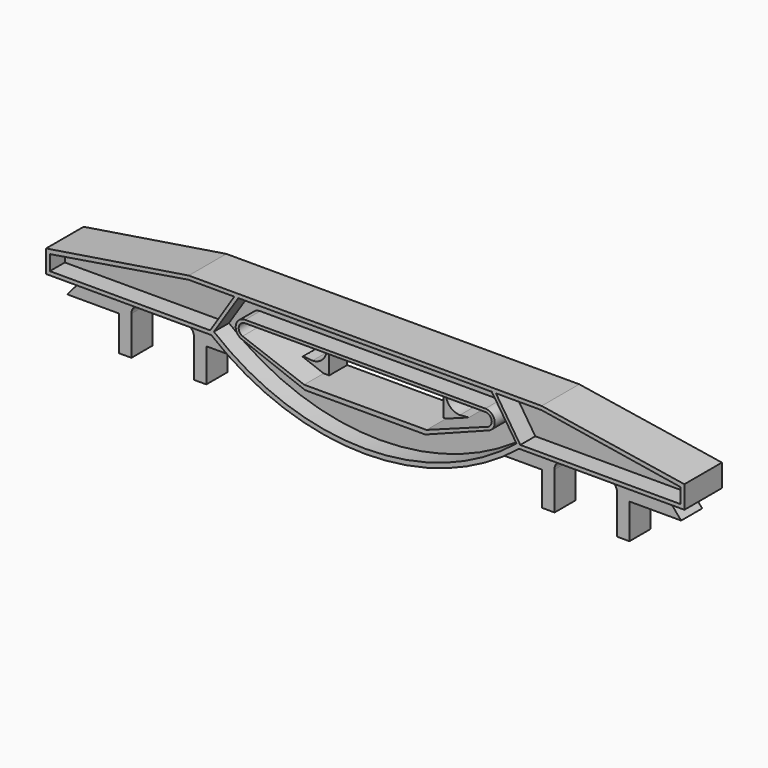
from build123d import *

# Parameters (mm, degrees)
EXTRUDE068_DEPTH           = 3
EXTRUDE068_PLACEMENT_ANGLE = 180
EXTRUDE067_DEPTH           = 3
EXTRUDE027_DEPTH           = 3.5
EXTRUDE034_DEPTH           = 3.5
EXTRUDE034_PLACEMENT_ANGLE = 180
EXTRUDE020_DEPTH           = 2.5
EXTRUDE019_DEPTH           = 6.25
CUT036_PLACEMENT_ANGLE     = 90


with BuildPart() as extrude068:
    # Sketch040 → Extrude068 (new body)
    with BuildSketch(Plane.XZ):
        with BuildLine():
            Line((32.579475, 2.855954), (34.598949, 2.855954))
            Line((34.598949, 2.855954), (34.598949, -1.799177))
            Line((34.598949, -1.799177), (33.872559, -1.799177))
            Line((33.872559, -1.799177), (31.075473, -0.756428))
            ThreePointArc((31.172102, -0.672237), (31.109316, -0.697722), (31.075473, -0.756428))
            Line((32.386694, -0.781542), (31.172102, -0.672237))
            ThreePointArc((32.386694, -0.781542), (33.712242, -0.224592), (34.260406, 1.104614))
            ThreePointArc((34.260406, 1.104614), (33.763902, 2.113863), (32.714019, 2.517408))
            ThreePointArc((32.579475, 2.855954), (32.532862, 2.641421), (32.714019, 2.517408))
        make_face()
    extrude(amount=EXTRUDE068_DEPTH)


with BuildPart() as extrude068_1:
    # Extrude068 placement: moved
    add(extrude068.part.moved(Location((84.4, -62.8, 0))).rotate(Axis((84.4, -62.8, 0), (0, 0, 1)), EXTRUDE068_PLACEMENT_ANGLE))


with BuildPart() as extrude067:
    # Sketch040 → Extrude067 (new body)
    with BuildSketch(Plane.XZ):
        with BuildLine():
            Line((32.579475, 2.855954), (34.598949, 2.855954))
            Line((34.598949, 2.855954), (34.598949, -1.799177))
            Line((34.598949, -1.799177), (33.872559, -1.799177))
            Line((33.872559, -1.799177), (31.075473, -0.756428))
            ThreePointArc((31.172102, -0.672237), (31.109316, -0.697722), (31.075473, -0.756428))
            Line((32.386694, -0.781542), (31.172102, -0.672237))
            ThreePointArc((32.386694, -0.781542), (33.712242, -0.224592), (34.260406, 1.104614))
            ThreePointArc((34.260406, 1.104614), (33.763902, 2.113863), (32.714019, 2.517408))
            ThreePointArc((32.579475, 2.855954), (32.532862, 2.641421), (32.714019, 2.517408))
        make_face()
    extrude(amount=EXTRUDE067_DEPTH)


with BuildPart() as extrude067_1:
    # Extrude067 placement: moved
    add(extrude067.part.moved(Location((0, -59.8, 0))))


with BuildPart() as extrude027:
    # Sketch019 → Extrude027 (new body)
    with BuildSketch(Plane.XZ):
        with BuildLine():
            Line((82.710403, -2.436997), (80.667656, -0.042506))
            Line((80.667656, -0.042506), (62.164684, -0.042506))
            Line((62.164684, -0.042506), (58.594872, -2.493932))
            Line((58.594872, -2.493932), (64.198559, -2.493932))
            Line((64.198559, -2.493932), (64.198559, -6.97036))
            Line((64.198559, -6.97036), (65.852661, -6.97036))
            Line((65.852661, -6.97036), (65.852661, -1.924586))
            ThreePointArc((66.964828, -0.767347), (66.162314, -1.109134), (65.852661, -1.924586))
            Line((66.964828, -0.767347), (73.098848, -0.767347))
            ThreePointArc((74.177399, -1.907358), (73.865032, -1.122677), (73.098848, -0.767347))
            Line((74.177399, -1.907358), (74.177399, -7.098253))
            Line((74.177399, -7.098253), (75.826362, -7.098253))
            Line((75.826362, -7.098253), (75.826362, -2.436997))
            Line((75.826362, -2.436997), (82.710403, -2.436997))
        make_face()
    extrude(amount=EXTRUDE027_DEPTH)


with BuildPart() as extrude027_1:
    # Extrude027 placement: moved
    add(extrude027.part.moved(Location((0.12, -61, 0))))


with BuildPart() as extrude034:
    # Sketch019 → Extrude034 (new body)
    with BuildSketch(Plane.XZ):
        with BuildLine():
            Line((82.710403, -2.436997), (80.667656, -0.042506))
            Line((80.667656, -0.042506), (62.164684, -0.042506))
            Line((62.164684, -0.042506), (58.594872, -2.493932))
            Line((58.594872, -2.493932), (64.198559, -2.493932))
            Line((64.198559, -2.493932), (64.198559, -6.97036))
            Line((64.198559, -6.97036), (65.852661, -6.97036))
            Line((65.852661, -6.97036), (65.852661, -1.924586))
            ThreePointArc((66.964828, -0.767347), (66.162314, -1.109134), (65.852661, -1.924586))
            Line((66.964828, -0.767347), (73.098848, -0.767347))
            ThreePointArc((74.177399, -1.907358), (73.865032, -1.122677), (73.098848, -0.767347))
            Line((74.177399, -1.907358), (74.177399, -7.098253))
            Line((74.177399, -7.098253), (75.826362, -7.098253))
            Line((75.826362, -7.098253), (75.826362, -2.436997))
            Line((75.826362, -2.436997), (82.710403, -2.436997))
        make_face()
    extrude(amount=EXTRUDE034_DEPTH)


with BuildPart() as extrude034_1:
    # Extrude034 placement: moved
    add(extrude034.part.moved(Location((83.88, -64.6, 0))).rotate(Axis((83.88, -64.6, 0), (0, 0, 1)), EXTRUDE034_PLACEMENT_ANGLE))


with BuildPart() as extrude020:
    # Sketch012 → Extrude020 (new body)
    with BuildSketch(Plane.XY):
        with BuildLine():
            ThreePointArc((22.35, 0.5), (42.5, -6.665278), (62.65, 0.5))
            Line((59.35, 5.5), (62.65, 0.5))
            Line((25.6, 5.5), (59.35, 5.5))
            Line((22.35, 0.5), (25.6, 5.5))
        make_face()
        with BuildLine():
            Line((26.5, 3.25), (58.5, 3.25))
            ThreePointArc((59, 0.854356), (59.723633, 2.255387), (58.5, 3.25))
            Line((59, 0.854356), (50.5, -2.395644))
            Line((50.5, -2.395644), (34.5, -2.395644))
            Line((34.5, -2.395644), (26, 0.854356))
            ThreePointArc((26.5, 3.25), (25.276367, 2.255387), (26, 0.854356))
        make_face(mode=Mode.SUBTRACT)
        Polygon((21.85, 0.5), (0.5, 0.5), (0.5, 2.5), (19, 5.5), (25.06863, 5.5), align=None)
        Polygon((63.15, 0.5), (59.897327, 5.5), (66, 5.5), (84.5, 2.5), (84.5, 0.5), align=None)
    extrude(amount=EXTRUDE020_DEPTH)


with BuildPart() as extrude020_1:
    # Extrude020 placement: moved
    add(extrude020.part.moved(Location((0, 0, 3.75))))


with BuildPart() as seitentraeger:
    # Sketch011 → Extrude019 (new body)
    with BuildSketch(Plane.XY):
        with BuildLine():
            Line((22, 0), (0, 0))
            Line((0, 0), (0, 3))
            Line((0, 3), (19, 6))
            Line((19, 6), (66, 6))
            Line((66, 6), (85, 3))
            Line((85, 3), (85, 0))
            Line((85, 0), (63, 0))
            ThreePointArc((22, 0), (42.5, -7.28096), (63, 0))
        make_face()
        with BuildLine():
            Line((26.5, 2.85), (58.5, 2.85))
            ThreePointArc((58.857785, 1.228968), (59.330023, 2.183198), (58.5, 2.85))
            Line((58.857785, 1.228968), (50.661382, -1.8))
            Line((50.661382, -1.8), (34.364024, -1.8))
            Line((34.364024, -1.8), (26.164024, 1.219218))
            ThreePointArc((26.5, 2.85), (25.667484, 2.171516), (26.164024, 1.219218))
        make_face(mode=Mode.SUBTRACT)
    extrude(amount=EXTRUDE019_DEPTH)

    # Cut036: cut Extrude020
    add(extrude020_1.part, mode=Mode.SUBTRACT)


with BuildPart() as seitentraeger_1:
    # Cut036 placement: moved
    add(seitentraeger.part.moved(Location((-0.5, -59.8, 0))).rotate(Axis((-0.5, -59.8, 0), (1, 0, 0)), CUT036_PLACEMENT_ANGLE))

    # Fusion034: union Extrude027, Extrude034
    add(extrude027_1.part)
    add(extrude034_1.part)

    # Fusion058: union Extrude068, Extrude067
    add(extrude068_1.part)
    add(extrude067_1.part)


solid = seitentraeger_1.part
